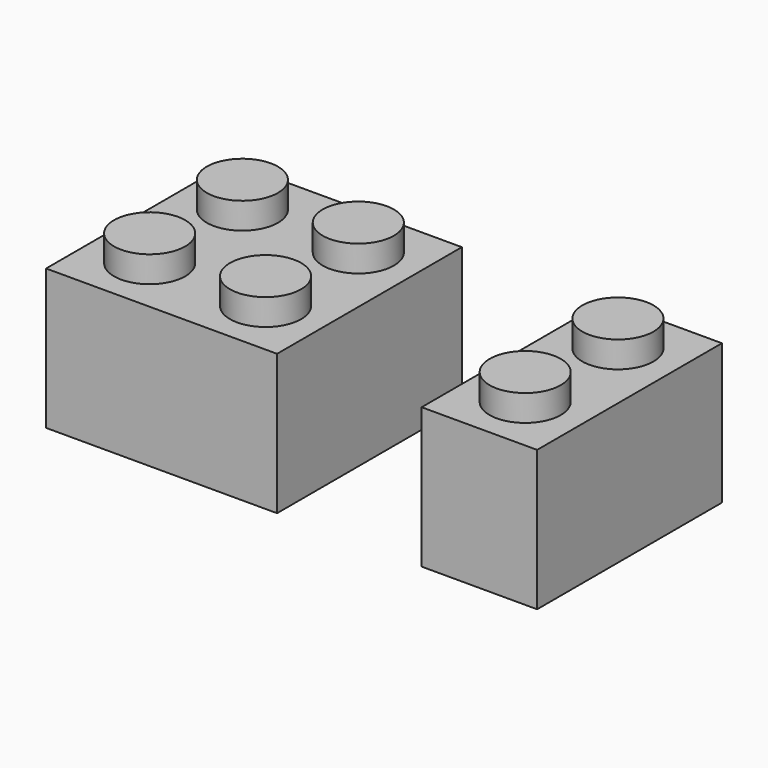
from build123d import *

# Parameters (mm, degrees)
F0_R     = 2.435
F1_DEPTH = 9.6
F2_DEPTH = 11.4
F3_W     = 7.9
F3_H     = 15.8
F3_R     = 2.435
F4_DEPTH = 9.6
F5_DEPTH = 11.4
F6_T     = -1.4
F7_T     = -1.4
F8_R     = 3.1
F9_DEPTH = 4


with BuildPart() as f1:
    # F0 (on Top) → F1 (new body)
    with BuildSketch(Plane.XY):
        Polygon((-7.9, -7.9), (7.9, -7.9), (7.9, 7.9), (-7.9, 7.9), (-7.9, 0), align=None)
        with Locations((-3.965, -3.965)):
            Circle(F0_R, mode=Mode.SUBTRACT)
        with Locations((3.965, -3.965)):
            Circle(F0_R, mode=Mode.SUBTRACT)
        with Locations((-3.965, 3.965)):
            Circle(F0_R, mode=Mode.SUBTRACT)
        with Locations((3.965, 3.965)):
            Circle(F0_R, mode=Mode.SUBTRACT)
    extrude(amount=F1_DEPTH)

    # F0 (on Top) → F2 (join)
    with BuildSketch(Plane.XY):
        with Locations((-3.965, 3.965)):
            Circle(F0_R)
        with Locations((3.965, 3.965)):
            Circle(F0_R)
        with Locations((3.965, -3.965)):
            Circle(F0_R)
        with Locations((-3.965, -3.965)):
            Circle(F0_R)
    extrude(amount=F2_DEPTH)

    # F6
    f6_openings = [f1.faces().sort_by_distance(p)[0] for p in [
        (0, 0, 0),
    ]]
    offset(amount=F6_T, openings=f6_openings, kind=Kind.INTERSECTION)


with BuildPart() as f4:
    # F3 (on Top) → F4 (new body)
    with BuildSketch(Plane.XY):
        with Locations((21.7390172184, 0)):
            Rectangle(F3_W, F3_H)
        with Locations((21.7240172184, -3.965)):
            Circle(F3_R, mode=Mode.SUBTRACT)
        with Locations((21.7240172184, 3.965)):
            Circle(F3_R, mode=Mode.SUBTRACT)
    extrude(amount=F4_DEPTH)

    # F3 (on Top) → F5 (join)
    with BuildSketch(Plane.XY):
        with Locations((21.7240172184, 3.965)):
            Circle(F3_R)
        with Locations((21.7240172184, -3.965)):
            Circle(F3_R)
    extrude(amount=F5_DEPTH)

    # F7
    f7_openings = [f4.faces().sort_by_distance(p)[0] for p in [
        (21.739017, 0, 0),
    ]]
    offset(amount=F7_T, openings=f7_openings, kind=Kind.INTERSECTION)


with BuildPart() as f9:
    # F8 (on Top) → F9 (new body)
    with BuildSketch(Plane.XY):
        Circle(F8_R)
    extrude(amount=F9_DEPTH)


solid = Compound([f1.part, f4.part, f9.part])
